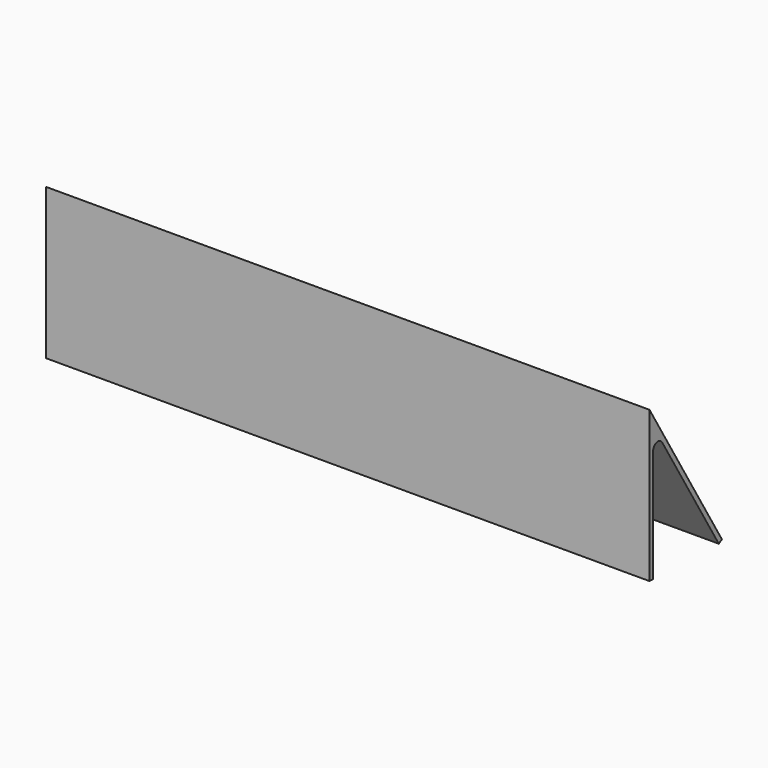
from build123d import *

# Parameters (mm, degrees)
F1_DEPTH = 100


with BuildPart() as f1:
    # F0 (on Right) → F1 (new body, symmetric)
    with BuildSketch(Plane.YZ):
        with BuildLine():
            Line((0, 50), (0, 0))
            Line((0, 0), (1.5, 0))
            Line((1.5, 0), (1.5, 37.363889))
            ThreePointArc((1.5, 37.363889), (2.966133, 39.291319), (5.214986, 38.392881))
            Line((5.214986, 38.392881), (28.713761, -0.771744))
            Line((28.713761, -0.771744), (30, 0))
            Line((30, 0), (0, 50))
        make_face()
    extrude(amount=F1_DEPTH, both=True)


solid = f1.part
